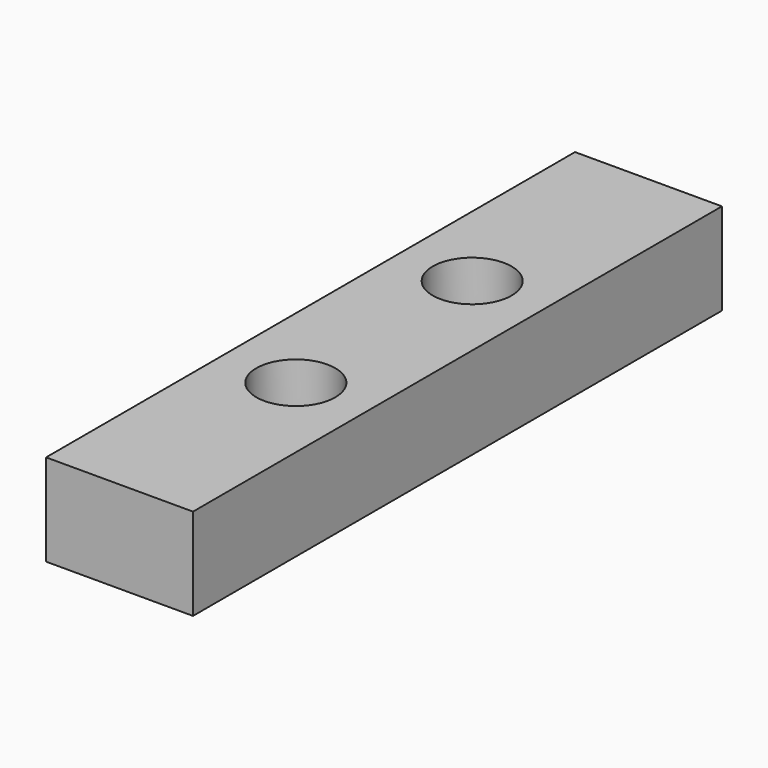
from build123d import *

# Parameters (mm, degrees)
F0_W           = 20.32
F0_H           = 91.44
F1_DEPTH       = 12.7
F3_D           = 6.35
F3_CBORE_D     = 10.922
F3_CBORE_DEPTH = 6.35


with BuildPart() as f1:
    # F0 (on Top) → F1 (new body)
    with BuildSketch(Plane.XY):
        Rectangle(F0_W, F0_H)
    extrude(amount=F1_DEPTH)

    # F3 (through all)
    with Locations(Plane.XY.offset(12.7)):
        with Locations((0, 15.24), (0, -15.24)):
            CounterBoreHole(F3_D / 2, F3_CBORE_D / 2, F3_CBORE_DEPTH)


solid = f1.part
